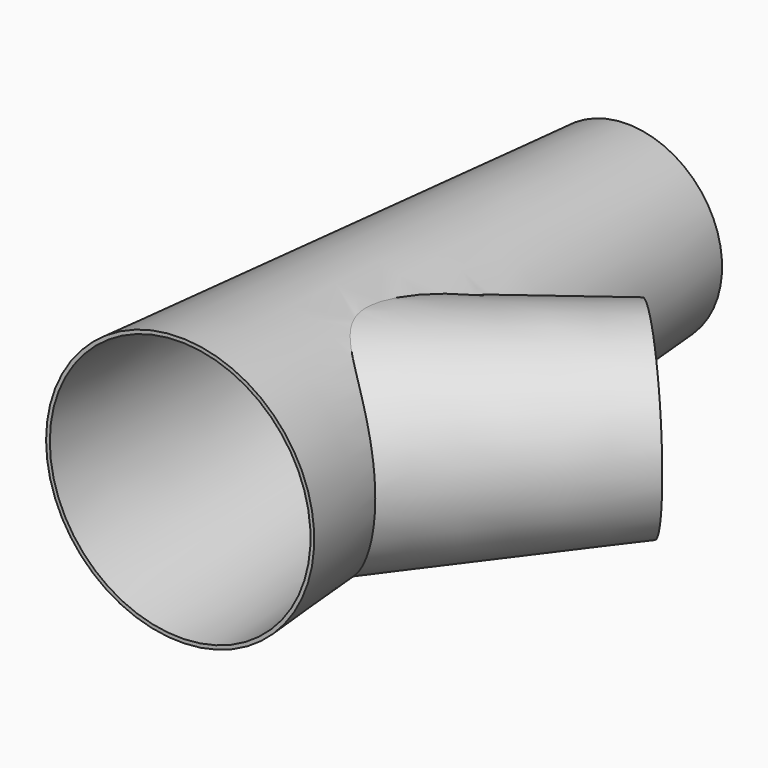
from build123d import *


with BuildPart() as f3:
    # F2 (on Top) → F3 (revolve)
    with BuildSketch(Plane.XY):
        Polygon((-1800, 0), (-1750, 0), (-1225, 7500), (-1275, 7500), align=None)
    revolve(axis=Axis((0, 3750, 0), (0, 1, 0)))

    # F1 (on Top) → F4 (revolve)
    with BuildSketch(Plane.XY):
        Polygon((3694.632932, 3462.221318), (1060.660172, 439.339828), (1096.015511, 403.984489), (3729.988271, 3426.865979), align=None)
    revolve(axis=Axis((1414.213562, 2914.213562, 0), (0.707107, 0.707107, 0)))

    # F1 (on Top) → F5 (revolve, cut)
    with BuildSketch(Plane.XY):
        Polygon((2828.427125, 4328.427125), (0, 1500), (1060.660172, 439.339828), (3694.632932, 3462.221318), align=None)
    revolve(axis=Axis((1414.213562, 2914.213562, 0), (0.707107, 0.707107, 0)), mode=Mode.SUBTRACT)

    # F2 (on Top) → F6 (revolve, cut)
    with BuildSketch(Plane.XY):
        Polygon((-1750, 0), (0, 0), (0, 7500), (-1225, 7500), align=None)
    revolve(axis=Axis((0, 3750, 0), (0, 1, 0)), mode=Mode.SUBTRACT)


solid = f3.part
